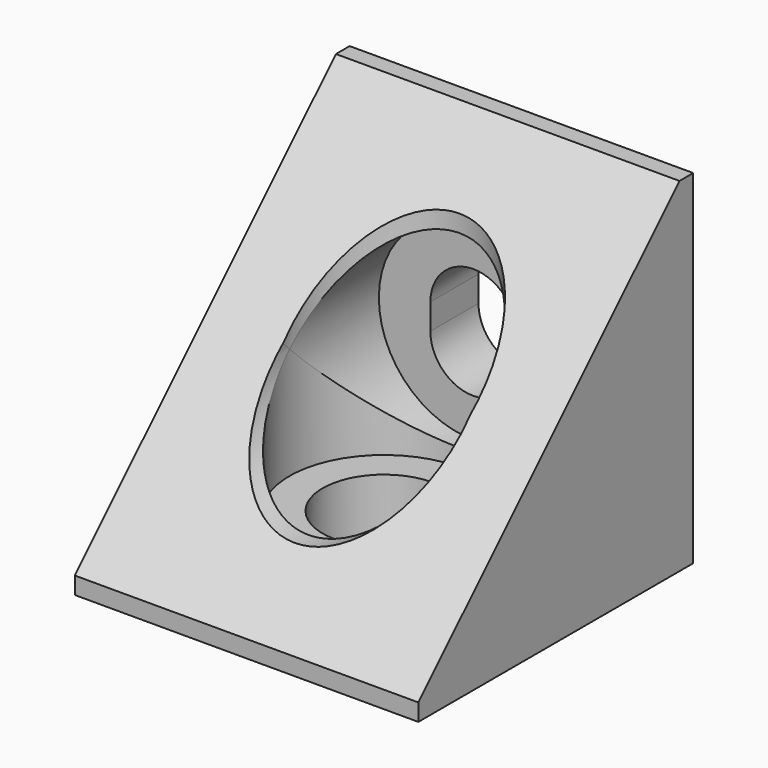
from build123d import *

# Parameters (mm, degrees)
F0_W      = 20
F0_H      = 20
F1_DEPTH  = 20
F2_R      = 3.57
F3_DEPTH  = 20.001
F5_R      = 5.5
F6_DEPTH  = 16.5
F8_DEPTH  = 20.001
F10_R     = 5.5
F11_DEPTH = 16.5
F13_DEPTH = 12.5


with BuildPart() as f1:
    # F0 (on Top) → F1 (new body)
    with BuildSketch(Plane.XY):
        Rectangle(F0_W, F0_H)
    extrude(amount=F1_DEPTH)

    # F2 (on Top) → F3 (cut, through all)
    with BuildSketch(Plane.XY):
        Circle(F2_R)
    extrude(amount=F3_DEPTH, mode=Mode.SUBTRACT)

    # F5 (on offset) → F6 (cut, through all)
    with BuildSketch(Plane.XY.offset(3.5)):
        Circle(F5_R)
    extrude(amount=F6_DEPTH, mode=Mode.SUBTRACT)

    # F7 (on face) → F8 (cut, through all)
    with BuildSketch(Plane(origin=(0, 10, 0), x_dir=(-1, 0, 0), z_dir=(0, 1, 0))):
        with BuildLine():
            Line((2.5, 9.25), (2.5, 10.75))
            ThreePointArc((2.5, 10.75), (0, 13.25), (-2.5, 10.75))
            Line((-2.5, 10.75), (-2.5, 9.25))
            ThreePointArc((-2.5, 9.25), (0, 6.75), (2.5, 9.25))
        make_face()
    extrude(amount=-F8_DEPTH, mode=Mode.SUBTRACT)

    # F10 (on offset) → F11 (cut, through all)
    with BuildSketch(Plane(origin=(0, 6.5, 0), x_dir=(-1, 0, 0), z_dir=(0, 1, 0))):
        with Locations((0, 10)):
            Circle(F10_R)
    extrude(amount=-F11_DEPTH, mode=Mode.SUBTRACT)

    # F12 (on Right) → F13 (cut, symmetric)
    with BuildSketch(Plane.YZ):
        Polygon((-10, 20), (-10, 1), (9, 20), align=None)
    extrude(amount=F13_DEPTH, both=True, mode=Mode.SUBTRACT)


solid = f1.part
